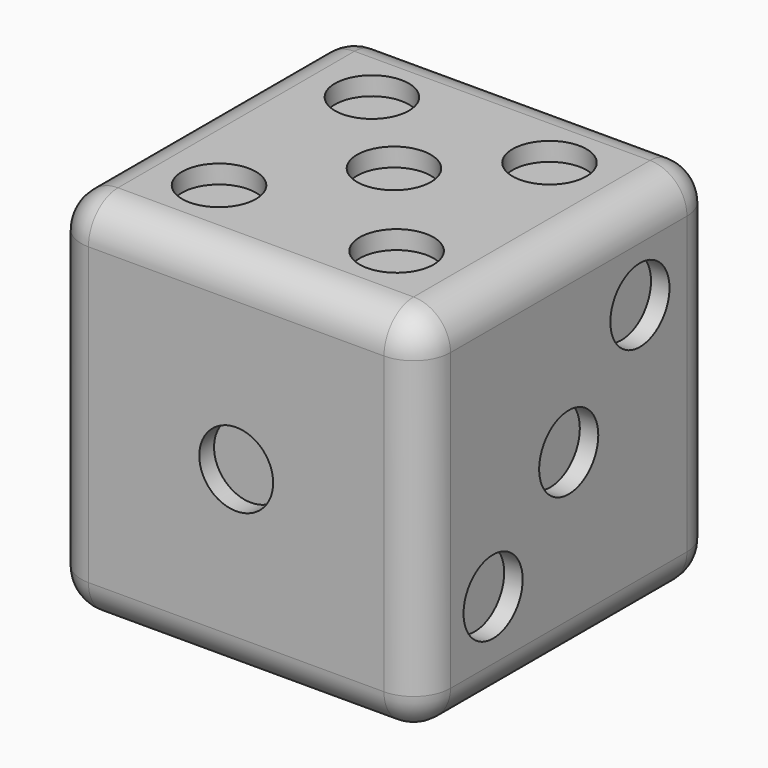
from build123d import *

# Parameters (mm, degrees)
F0_W       = 25.4
F0_H       = 25.4
F1_DEPTH   = 25.4
F2_R       = 2.54
F3_DEPTH   = 17.78
F4_W       = 20.32
F4_H       = 20.32
F5_DEPTH   = 3.81
F6_R       = 2.54
F7_DEPTH   = 1.27
F8_R       = 2.54
F9_DEPTH   = 1.27
F10_R      = 2.54
F1_FACE3_W = 20.32
F1_FACE3_H = 20.32
F11_DEPTH  = 1.27
F12_R      = 2.4632205566
F12_R_2    = 2.54
F13_DEPTH  = 1.27
F14_R      = 2.54
F15_DEPTH  = 1.27
F16_R      = 2.54
F17_DEPTH  = 1.27


with BuildPart() as f1:
    # F0 (on Front) → F1 (new body)
    with BuildSketch(Plane.XZ):
        Rectangle(F0_W, F0_H)
    extrude(amount=F1_DEPTH)

    # F2
    f2_edges = [f1.edges().sort_by_distance(p)[0] for p in [
        (12.7, -12.7, 12.7),
        (12.7, -25.4, 0),
        (12.7, -12.7, -12.7),
        (12.7, 0, 0),
        (0, 0, 12.7),
        (0, 0, -12.7),
        (0, -25.4, -12.7),
        (0, -25.4, 12.7),
        (-12.7, -25.4, 0),
        (-12.7, -12.7, 12.7),
        (-12.7, 0, 0),
        (-12.7, -12.7, -12.7),
    ]]
    fillet(f2_edges, radius=F2_R)

    # F3 (cut): a face of the model
    f3_faces = [f1.faces().sort_by_distance(p)[0] for p in [
        (0, 0, 0),
    ]]
    extrude(f3_faces, amount=-F3_DEPTH, mode=Mode.SUBTRACT)

    # F4 (on Front) → F5 (join)
    with BuildSketch(Plane.XZ):
        Rectangle(F4_W, F4_H)
    extrude(amount=F5_DEPTH)

    # F6 (on face) → F7 (cut)
    with BuildSketch(Plane(origin=(0, 0, 0), x_dir=(-1, 0, 0), z_dir=(0, 1, 0))):
        with Locations((-5.6349025984, 0)):
            Circle(F6_R)
        with Locations((-5.6349025984, 6.9014462642)):
            Circle(F6_R)
        with Locations((-5.6349025984, -5.9648556635)):
            Circle(F6_R)
        with Locations((5.1562977023, 0)):
            Circle(F6_R)
        with Locations((5.1562977023, 6.9774198346)):
            Circle(F6_R)
        with Locations((5.1562977023, -6.0284850188)):
            Circle(F6_R)
    extrude(amount=-F7_DEPTH, mode=Mode.SUBTRACT)

    # F8 (on face) → F9 (cut)
    with BuildSketch(Plane.XZ.offset(25.4)):
        Circle(F8_R)
    extrude(amount=-F9_DEPTH, mode=Mode.SUBTRACT)

    # F10 (on face) + F1_face3 (on face) → F11 (cut)
    with BuildSketch(Plane.YZ.offset(12.7)):
        with Locations((-12.7, 0)):
            Circle(F10_R)
        with Locations((-6.582416594, 6.4226952381)):
            Circle(F10_R)
        with Locations((-19.1999990493, -6.0931327753)):
            Circle(F10_R)
    with BuildSketch(Plane(origin=(-12.7, -12.7, 0), x_dir=(0, -1, 0), z_dir=(-1, 0, 0))):
        Rectangle(F1_FACE3_W, F1_FACE3_H)
    extrude(amount=-F11_DEPTH, dir=(1, 0, 0), mode=Mode.SUBTRACT)

    # F12 (on face) → F13 (cut)
    with BuildSketch(Plane(origin=(-12.7, 0, 0), x_dir=(0, -1, 0), z_dir=(-1, 0, 0))):
        with Locations((6.9892560132, 6.1440924183)):
            Circle(F12_R)
        with Locations((6.9892560132, -5.2524344064)):
            Circle(F12_R_2)
        with Locations((18.284028396, 6.1440924183)):
            Circle(F12_R_2)
        with Locations((18.284028396, -5.2524344064)):
            Circle(F12_R_2)
    extrude(amount=-F13_DEPTH, mode=Mode.SUBTRACT)

    # F14 (on face) → F15 (cut)
    with BuildSketch(Plane(origin=(0, 0, -12.7), x_dir=(1, 0, 0), z_dir=(0, 0, -1))):
        with Locations((4.888321273, 18.5727626085)):
            Circle(F14_R)
        with Locations((-4.9818856642, 8.193783462)):
            Circle(F14_R)
    extrude(amount=-F15_DEPTH, mode=Mode.SUBTRACT)

    # F16 (on face) → F17 (cut)
    with BuildSketch(Plane.XY.offset(12.7)):
        with Locations((0, -11.8432976305)):
            Circle(F16_R)
        with Locations((-6.1014243402, -6.1122667976)):
            Circle(F16_R)
        with Locations((6.108049769, -6.1122667976)):
            Circle(F16_R)
        with Locations((-6.1014243402, -19.2499253899)):
            Circle(F16_R)
        with Locations((6.108049769, -19.2499253899)):
            Circle(F16_R)
    extrude(amount=-F17_DEPTH, mode=Mode.SUBTRACT)


solid = f1.part
